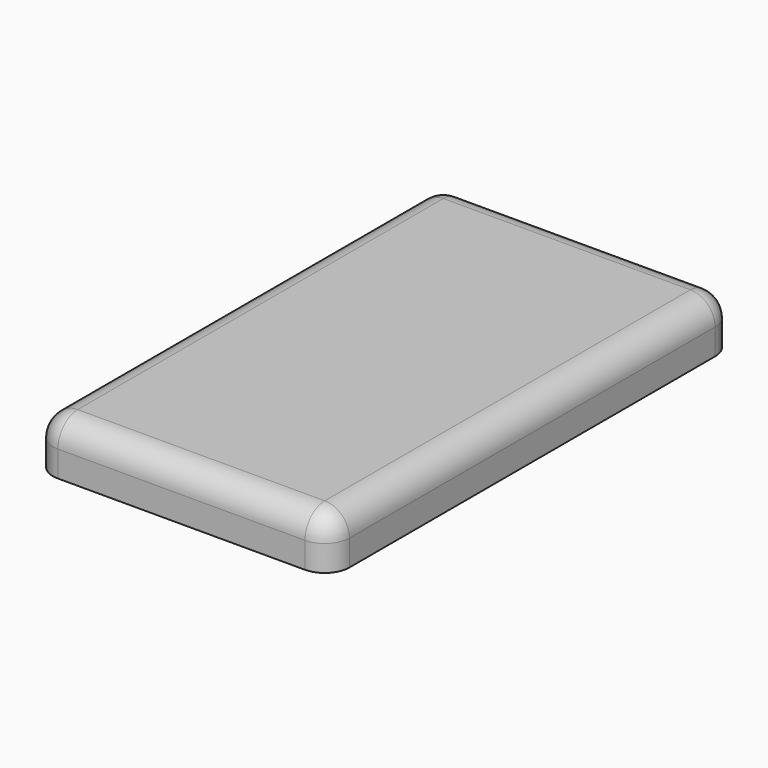
from build123d import *

# Parameters (mm, degrees)
F0_R     = 17.78
F0_W     = 50.8
F0_H     = 38.1
F0_R_2   = 7.62
F1_DEPTH = 10.414
F2_DEPTH = 1.27
F3_R     = 5.08


with BuildPart() as f1:
    # F0 (on Top) → F1 (new body)
    with BuildSketch(Plane.XY):
        with BuildLine():
            Line((25.4, 52.07), (-25.4, 52.07))
            ThreePointArc((-25.4, 52.07), (-28.9921024484, 50.5821024484), (-30.48, 46.99))
            Line((-30.48, 46.99), (-30.48, -46.99))
            ThreePointArc((-30.48, -46.99), (-28.9921024484, -50.5821024484), (-25.4, -52.07))
            Line((-25.4, -52.07), (25.4, -52.07))
            ThreePointArc((25.4, -52.07), (28.9921024484, -50.5821024484), (30.48, -46.99))
            Line((30.48, -46.99), (30.48, 46.99))
            ThreePointArc((30.48, 46.99), (28.9921024484, 50.5821024484), (25.4, 52.07))
        make_face()
        with Locations((0, -21.59)):
            Circle(F0_R, mode=Mode.SUBTRACT)
        with Locations((0, 26.67)):
            Rectangle(F0_W, F0_H, mode=Mode.SUBTRACT)
        with Locations((0, 26.67)):
            Rectangle(F0_W, F0_H)
        with Locations((0, -21.59)):
            Circle(F0_R)
        with Locations((0, -21.59)):
            Circle(F0_R_2, mode=Mode.SUBTRACT)
        with Locations((0, -21.59)):
            Circle(F0_R_2)
    extrude(amount=F1_DEPTH)

    # F0 (on Top) → F2 (join)
    with BuildSketch(Plane.XY):
        with Locations((0, -21.59)):
            Circle(F0_R)
        with Locations((0, -21.59)):
            Circle(F0_R_2, mode=Mode.SUBTRACT)
        with Locations((0, 26.67)):
            Rectangle(F0_W, F0_H)
    extrude(amount=-F2_DEPTH)

    # F3
    f3_edges = [f1.edges().sort_by_distance(p)[0] for p in [
        (0, -52.07, 10.414),
        (0, 52.07, 10.414),
    ]]
    fillet(f3_edges, radius=F3_R)


solid = f1.part
